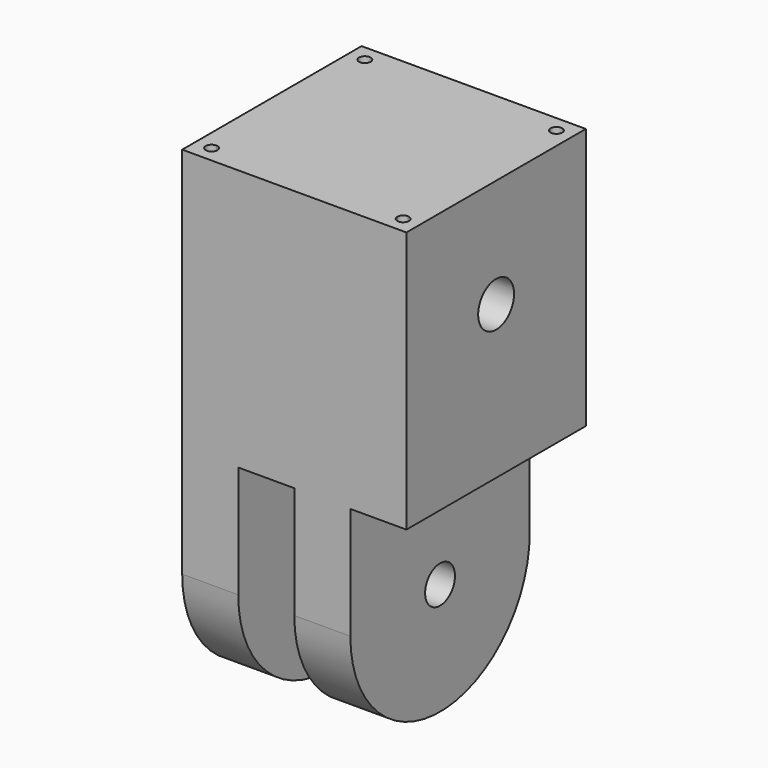
from build123d import *

# Parameters (mm, degrees)
F0_W     = 76.2
F0_H     = 88.9
F0_R     = 7.62
F1_DEPTH = 38.1
F2_DEPTH = 19.05
F3_START = -19.05
F3_DEPTH = 19.05
F5_DEPTH = 25.4


with BuildPart() as f1:
    # F0 (on Right) → F1 (new body, symmetric)
    with BuildSketch(Plane.YZ):
        with Locations((0, 19.05)):
            Rectangle(F0_W, F0_H)
        with Locations((0, 26.5176)):
            Circle(F0_R, mode=Mode.SUBTRACT)
    extrude(amount=F1_DEPTH, both=True)

    # F0 (on Right) → F2 (join)
    with BuildSketch(Plane.YZ):
        with BuildLine():
            Line((6.35, -63.5), (38.1, -63.5))
            Line((38.1, -63.5), (38.1, -25.4))
            Line((38.1, -25.4), (-38.1, -25.4))
            Line((-38.1, -25.4), (-38.1, -63.5))
            Line((-38.1, -63.5), (-6.35, -63.5))
            ThreePointArc((-6.35, -63.5), (0, -57.15), (6.35, -63.5))
        make_face()
        with BuildLine():
            ThreePointArc((-38.1, -63.5), (0, -101.6), (38.1, -63.5))
            Line((38.1, -63.5), (6.35, -63.5))
            ThreePointArc((6.35, -63.5), (0, -69.85), (-6.35, -63.5))
            Line((-6.35, -63.5), (-38.1, -63.5))
        make_face()
    extrude(amount=F2_DEPTH)

    # F0 (on Right) → F3 (join)
    with BuildSketch(Plane.YZ.offset(F3_START)):
        with BuildLine():
            Line((6.35, -63.5), (38.1, -63.5))
            Line((38.1, -63.5), (38.1, -25.4))
            Line((38.1, -25.4), (-38.1, -25.4))
            Line((-38.1, -25.4), (-38.1, -63.5))
            Line((-38.1, -63.5), (-6.35, -63.5))
            ThreePointArc((-6.35, -63.5), (0, -57.15), (6.35, -63.5))
        make_face()
        with BuildLine():
            ThreePointArc((-38.1, -63.5), (0, -101.6), (38.1, -63.5))
            Line((38.1, -63.5), (6.35, -63.5))
            ThreePointArc((6.35, -63.5), (0, -69.85), (-6.35, -63.5))
            Line((-6.35, -63.5), (-38.1, -63.5))
        make_face()
    extrude(amount=-F3_DEPTH)

    # F4 (on face) → F5 (cut)
    with BuildSketch(Plane.XY.offset(63.5)):
        with BuildLine():
            ThreePointArc((-30.5689, 32.5501), (-33.9510199549, 33.9510199549), (-32.5501, 30.5689))
            Line((-32.5501, 30.5689), (-32.5501, 32.5501))
            Line((-32.5501, 32.5501), (-30.5689, 32.5501))
        make_face()
        with BuildLine():
            Line((-32.5501, 32.5501), (-32.5501, 30.5689))
            ThreePointArc((-32.5501, 30.5689), (-31.1491800451, 31.1491800451), (-30.5689, 32.5501))
            Line((-30.5689, 32.5501), (-32.5501, 32.5501))
        make_face()
        with BuildLine():
            ThreePointArc((30.5689, 32.5501), (31.1491800451, 31.1491800451), (32.5501, 30.5689))
            Line((32.5501, 30.5689), (32.5501, 32.5501))
            Line((32.5501, 32.5501), (30.5689, 32.5501))
        make_face()
        with BuildLine():
            Line((32.5501, 32.5501), (32.5501, 30.5689))
            ThreePointArc((32.5501, 30.5689), (33.9510199549, 31.1491800451), (34.5313, 32.5501))
            ThreePointArc((34.5313, 32.5501), (32.5501, 34.5313), (30.5689, 32.5501))
            Line((30.5689, 32.5501), (32.5501, 32.5501))
        make_face()
        with BuildLine():
            ThreePointArc((-32.5501, -30.5689), (-33.9510199549, -33.9510199549), (-30.5689, -32.5501))
            Line((-30.5689, -32.5501), (-32.5501, -32.5501))
            Line((-32.5501, -32.5501), (-32.5501, -30.5689))
        make_face()
        with BuildLine():
            Line((-32.5501, -32.5501), (-30.5689, -32.5501))
            ThreePointArc((-30.5689, -32.5501), (-31.1491800451, -31.1491800451), (-32.5501, -30.5689))
            Line((-32.5501, -30.5689), (-32.5501, -32.5501))
        make_face()
        with BuildLine():
            Line((32.5501, -32.5501), (30.5689, -32.5501))
            ThreePointArc((30.5689, -32.5501), (32.5501, -34.5313), (34.5313, -32.5501))
            ThreePointArc((34.5313, -32.5501), (33.9510199549, -31.1491800451), (32.5501, -30.5689))
            Line((32.5501, -30.5689), (32.5501, -32.5501))
        make_face()
        with BuildLine():
            ThreePointArc((32.5501, -30.5689), (31.1491800451, -31.1491800451), (30.5689, -32.5501))
            Line((30.5689, -32.5501), (32.5501, -32.5501))
            Line((32.5501, -32.5501), (32.5501, -30.5689))
        make_face()
    extrude(amount=-F5_DEPTH, mode=Mode.SUBTRACT)


solid = f1.part
